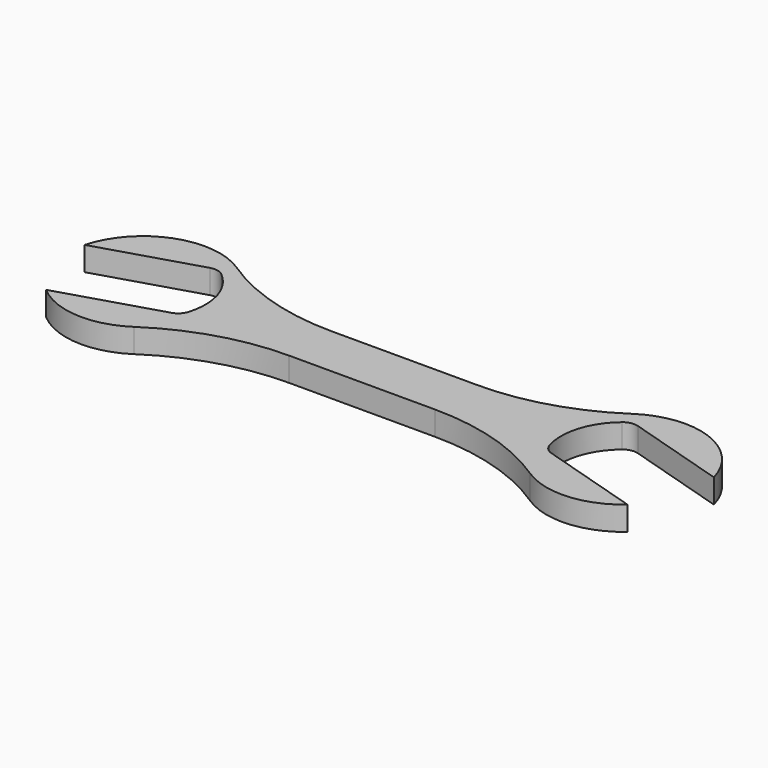
from build123d import *

# Parameters (mm, degrees)
F1_DEPTH = 5
F2_R     = 3


with BuildPart() as f1:
    # F0 (on Top) → F1 (new body)
    with BuildSketch(Plane.XY):
        with BuildLine():
            Line((-38.108476, -5.252776), (-60.477974, -12.091818))
            ThreePointArc((-60.477974, -12.091818), (-51.025932, -15.967074), (-41.155667, -13.333333))
            ThreePointArc((-41.155667, -13.333333), (-28.743171, -7.500926), (-15.17544, -5.5))
            Line((-15.17544, -5.5), (0, -5.5))
            Line((0, -5.5), (15.17544, -5.5))
            ThreePointArc((15.17544, -5.5), (28.743171, -7.500926), (41.155667, -13.333333))
            ThreePointArc((41.155667, -13.333333), (51.025932, -15.967074), (60.477974, -12.091818))
            Line((60.477974, -12.091818), (38.108476, -5.252776))
            ThreePointArc((38.108476, -5.252776), (37.568038, 3.800832), (43.078795, 11.004405))
            Line((43.078795, 11.004405), (65.448293, 4.165363))
            ThreePointArc((65.448293, 4.165363), (55.649424, 14.969436), (41.155667, 13.333333))
            ThreePointArc((41.155667, 13.333333), (28.743171, 7.500926), (15.17544, 5.5))
            Line((15.17544, 5.5), (0, 5.5))
            Line((0, 5.5), (-15.17544, 5.5))
            ThreePointArc((-15.17544, 5.5), (-28.743171, 7.500926), (-41.155667, 13.333333))
            ThreePointArc((-41.155667, 13.333333), (-55.649424, 14.969436), (-65.448293, 4.165363))
            Line((-65.448293, 4.165363), (-43.078795, 11.004405))
            ThreePointArc((-43.078795, 11.004405), (-37.568038, 3.800832), (-38.108476, -5.252776))
        make_face()
    extrude(amount=-F1_DEPTH)

    # F2
    f2_edges = [f1.edges().sort_by_distance(p)[0] for p in [
        (-38.108476, -5.252776, -2.5),
        (-43.078795, 11.004405, -2.5),
        (43.078795, 11.004405, -2.5),
        (38.108476, -5.252776, -2.5),
    ]]
    fillet(f2_edges, radius=F2_R)


solid = f1.part
